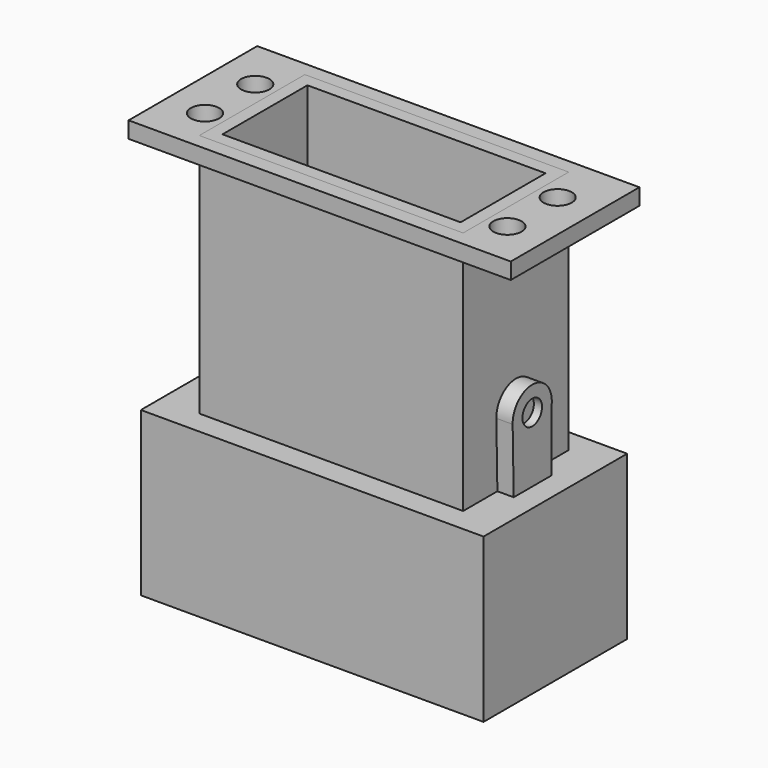
from build123d import *

# Parameters (mm, degrees)
F0_W      = 41.0674
F0_H      = 20.5337
F1_DEPTH  = 38.1
F2_W      = 53.34
F2_H      = 27.94
F2_W_2    = 41.0674
F2_H_2    = 20.5337
F3_DEPTH  = 25.4
F5_DEPTH  = 2.54
F6_R      = 1.558786
F7_DEPTH  = 1.27
F9_DEPTH  = 2.54
F10_R     = 1.905
F11_DEPTH = 1.27
F12_W     = 59.488534
F12_H     = 25.028098
F12_R     = 2.20005
F12_W_2   = 41.0674
F12_H_2   = 20.5337
F13_DEPTH = 2.54
F14_W     = 37.0674
F14_H     = 16.5337
F15_DEPTH = 63.501
F16_W     = 49.34
F16_H     = 23.94
F17_DEPTH = 22.86


with BuildPart() as f1:
    # F0 (on Top) → F1 (new body)
    with BuildSketch(Plane.XY):
        Rectangle(F0_W, F0_H)
    extrude(amount=-F1_DEPTH)

    # F14 (on face) → F15 (cut, through all)
    with BuildSketch(Plane.XY):
        Rectangle(F14_W, F14_H)
    extrude(amount=-F15_DEPTH, mode=Mode.SUBTRACT)


with BuildPart() as f3:
    # F2 (on face) → F3 (new body)
    with BuildSketch(Plane(origin=(0, 0, -38.1), x_dir=(1, 0, 0), z_dir=(0, 0, -1))):
        Rectangle(F2_W, F2_H)
        Rectangle(F2_W_2, F2_H_2, mode=Mode.SUBTRACT)
    extrude(amount=F3_DEPTH)

    # F16 (on face) → F17 (cut)
    with BuildSketch(Plane(origin=(0, 0, -63.5), x_dir=(1, 0, 0), z_dir=(0, 0, -1))):
        Rectangle(F16_W, F16_H)
    extrude(amount=-F17_DEPTH, mode=Mode.SUBTRACT)


with BuildPart() as f5:
    # F4 (on face) → F5 (new body)
    with BuildSketch(Plane(origin=(-20.5337, 0, 0), x_dir=(0, -1, 0), z_dir=(-1, 0, 0))):
        with BuildLine():
            ThreePointArc((3.809298, -27.866879), (3.809825, -27.903438), (3.81, -27.94))
            ThreePointArc((3.81, -27.94), (0.012455, -31.74998), (-3.809919, -27.964911))
            Line((-3.809919, -27.964911), (-3.809919, -38.1))
            Line((-3.809919, -38.1), (4.005727, -38.1))
            Line((4.005727, -38.1), (3.809298, -27.866879))
        make_face()
        with BuildLine():
            ThreePointArc((-3.809919, -27.964911), (0.012455, -31.74998), (3.81, -27.94))
            ThreePointArc((3.81, -27.94), (3.809825, -27.903438), (3.809298, -27.866879))
            ThreePointArc((3.809298, -27.866879), (-0.049017, -24.130315), (-3.809919, -27.964911))
        make_face()
    extrude(amount=F5_DEPTH)

    # F6 (on face) → F7 (cut)
    with BuildSketch(Plane(origin=(-23.0737, 0, 0), x_dir=(0, -1, 0), z_dir=(-1, 0, 0))):
        with Locations((0, -27.94)):
            Circle(F6_R)
    extrude(amount=-F7_DEPTH, mode=Mode.SUBTRACT)


with BuildPart() as f9:
    # F8 (on face) → F9 (new body)
    with BuildSketch(Plane.YZ.offset(20.5337)):
        with BuildLine():
            ThreePointArc((3.76674, -28.512511), (3.79917, -28.227071), (3.81, -27.94))
            ThreePointArc((3.81, -27.94), (-0.038418, -24.130194), (-3.809225, -28.016832))
            ThreePointArc((-3.809225, -28.016832), (-0.248748, -31.741871), (3.76674, -28.512511))
        make_face()
        with BuildLine():
            ThreePointArc((3.76674, -28.512511), (-0.248748, -31.741871), (-3.809225, -28.016832))
            Line((-3.809225, -28.016832), (-3.605847, -38.1))
            Line((-3.605847, -38.1), (3.76674, -38.1))
            Line((3.76674, -38.1), (3.76674, -28.512511))
        make_face()
    extrude(amount=F9_DEPTH)

    # F10 (on face) → F11 (cut)
    with BuildSketch(Plane.YZ.offset(23.0737)):
        with Locations((0, -27.94)):
            Circle(F10_R)
    extrude(amount=-F11_DEPTH, mode=Mode.SUBTRACT)


with BuildPart() as f13:
    # F12 (on face) → F13 (new body)
    with BuildSketch(Plane.XY):
        Rectangle(F12_W, F12_H)
        with Locations((-23.6626, -5.25112)):
            Circle(F12_R, mode=Mode.SUBTRACT)
        with Locations((23.6626, -5.567208)):
            Circle(F12_R, mode=Mode.SUBTRACT)
        with Locations((-23.6626, 4.52678)):
            Circle(F12_R, mode=Mode.SUBTRACT)
        Rectangle(F12_W_2, F12_H_2, mode=Mode.SUBTRACT)
        with Locations((23.6626, 4.210692)):
            Circle(F12_R, mode=Mode.SUBTRACT)
    extrude(amount=-F13_DEPTH)


solid = Compound([f1.part, f3.part, f5.part, f9.part, f13.part])
